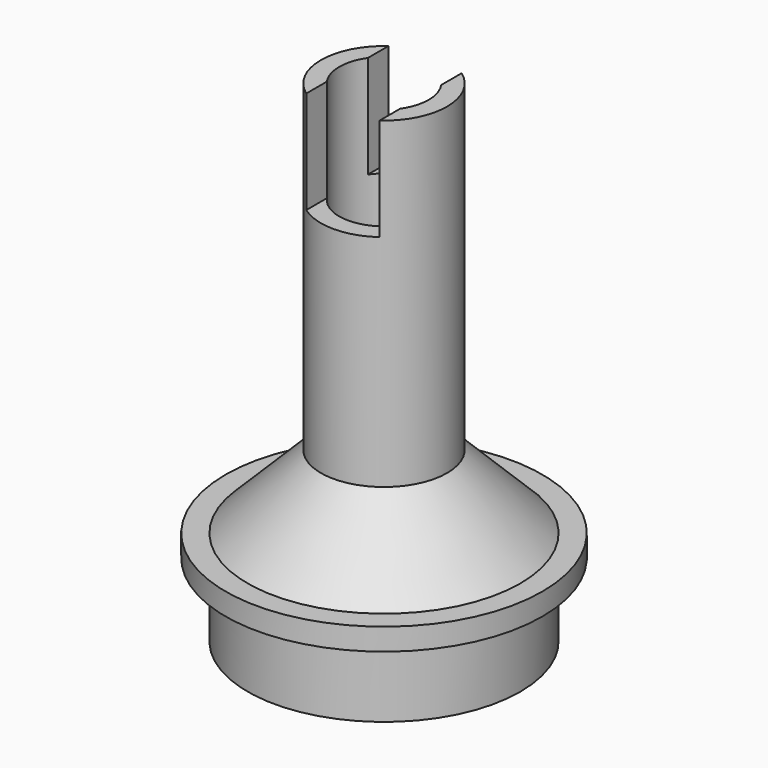
from build123d import *

# Parameters (mm, degrees)
F2_W     = 5
F2_H     = 8.6
F3_DEPTH = 7


with BuildPart() as f1:
    # F0 (on Front) → F1 (revolve)
    with BuildSketch(Plane.XZ):
        Polygon((4.3, 22.517767), (3.05, 22.517767), (3.05, 0), (8.05, -5), (8.05, -10.982233), (9.3, -10.982233), (9.3, -5.982233), (10.8, -5.982233), (10.8, -4.482233), (9.3, -4.482233), (4.3, 0.517767), align=None)
    revolve(axis=Axis((0, 0, 11.258883), (0, 0, 1)))

    # F2 (on face) → F3 (cut)
    with BuildSketch(Plane.XY.offset(22.517767)):
        Rectangle(F2_W, F2_H)
    extrude(amount=-F3_DEPTH, mode=Mode.SUBTRACT)


solid = f1.part
